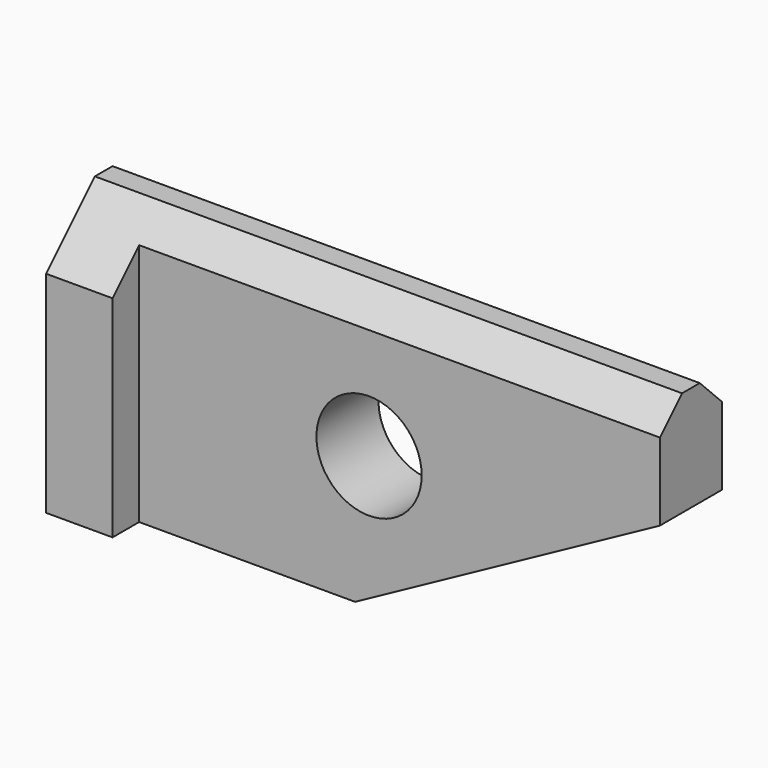
from build123d import *

# Parameters (mm, degrees)
F0_R     = 9.5
F1_DEPTH = 14
F2_W     = 12
F2_H     = 49
F3_DEPTH = 6
F5_DEPTH = 106.001


with BuildPart() as f1:
    # F0 (on Front) → F1 (new body)
    with BuildSketch(Plane.XZ):
        Polygon((52.5, 25), (-53.5, 25), (-53.5, -24), (-2.5, -24), (52.5, 6), align=None)
        Circle(F0_R, mode=Mode.SUBTRACT)
    extrude(amount=F1_DEPTH)

    # F2 (on face) → F3 (join)
    with BuildSketch(Plane.XZ.offset(14)):
        with Locations((-47.5, 0.5)):
            Rectangle(F2_W, F2_H)
    extrude(amount=F3_DEPTH)

    # F4 (on face) → F5 (cut, through all)
    with BuildSketch(Plane(origin=(-53.5, 0, 0), x_dir=(0, -1, 0), z_dir=(-1, 0, 0))):
        Polygon((20, 25), (9, 25), (20, 14), align=None)
        Polygon((0, 25), (0, 20), (5, 25), align=None)
    extrude(amount=-F5_DEPTH, mode=Mode.SUBTRACT)


solid = f1.part
